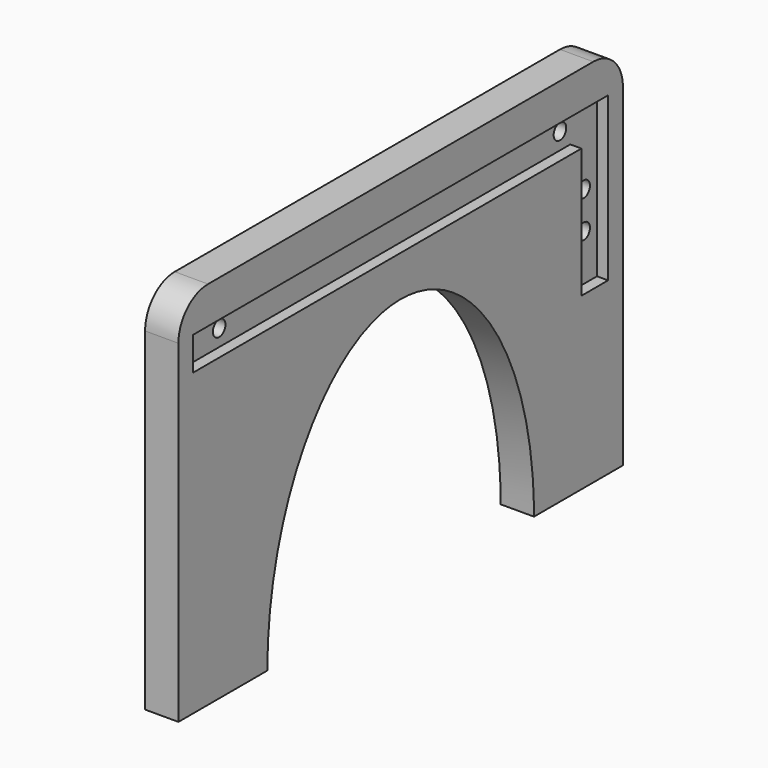
from build123d import *

# Parameters (mm, degrees)
PAD_DEPTH            = 18
POCKET_DEPTH         = 6
SKETCH002_R          = 4.25
POCKET001_DEPTH      = 0.001
POCKET001_DEPTH_BACK = 18.001


with BuildPart() as body:
    # Sketch → Pad (new body)
    with BuildSketch(Plane.YZ):
        with BuildLine():
            ThreePointArc((20, 200), (5.857864, 194.142136), (0, 180))
            Line((0, 180), (0, 0))
            Line((0, 0), (60, 0))
            add(Edge.make_bspline(
                [(240, 0), (240, 140), (150, 140), (60, 140), (60, 0)],
                knots=[1.570796, 1.570796, 1.570796, 3.141593, 3.141593, 4.712389, 4.712389, 4.712389], degree=2, weights=[1, 0.707107, 1, 0.707107, 1]))
            Line((240, 0), (300, 0))
            Line((300, 0), (300, 180))
            ThreePointArc((300, 180), (294.142136, 194.142136), (280, 200))
            Line((280, 200), (225, 200))
            Line((225, 200), (75, 200))
            Line((75, 200), (20, 200))
        make_face()
    extrude(amount=PAD_DEPTH)

    # Sketch001 → Pocket (cut)
    with BuildSketch(Plane.YZ.offset(18)):
        Polygon((28, 92), (28, 162), (290, 162), (290, 180), (10, 180), (10, 92), align=None)
    extrude(amount=-POCKET_DEPTH, mode=Mode.SUBTRACT)

    # Sketch002 → Pocket001 (cut, two sides)
    with BuildSketch(Plane.YZ) as pocket001_sk:
        with Locations((19, 137)):
            Circle(SKETCH002_R)
        with Locations((19, 117)):
            Circle(SKETCH002_R)
        with Locations((35, 171)):
            Circle(SKETCH002_R)
        with Locations((265, 171)):
            Circle(SKETCH002_R)
    extrude(amount=-POCKET001_DEPTH, mode=Mode.SUBTRACT)
    extrude(pocket001_sk.sketch, amount=POCKET001_DEPTH_BACK, mode=Mode.SUBTRACT)


with BuildPart() as part_mirroring:
    # Part__Mirroring: instance of Body
    add(body.part.mirror(Plane(origin=(0, 0, 0), x_dir=(1, 0, 0), z_dir=(0, 1, 0))))


solid = part_mirroring.part
